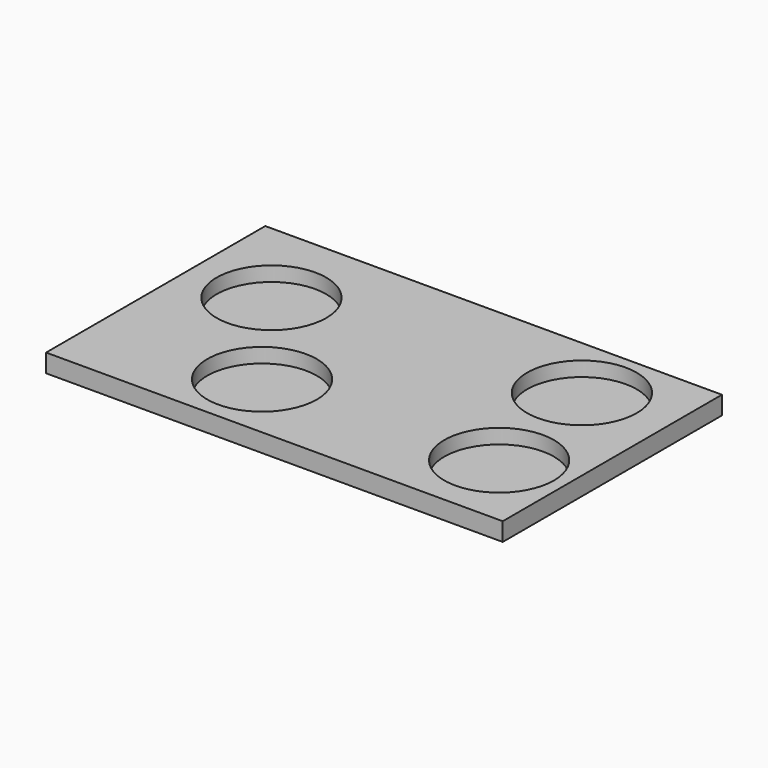
from build123d import *

# Parameters (mm, degrees)
F0_W     = 50
F0_H     = 30
F1_DEPTH = 2
F2_R     = 6
F3_DEPTH = 1.6


with BuildPart() as f1:
    # F0 (on Top) → F1 (new body)
    with BuildSketch(Plane.XY):
        Rectangle(F0_W, F0_H)
    extrude(amount=-F1_DEPTH)

    # F2 (on Top) → F3 (cut)
    with BuildSketch(Plane.XY):
        with Locations((-16.288219, 4.957285)):
            Circle(F2_R)
        with Locations((-7.487288, -7.332874)):
            Circle(F2_R)
        with Locations((15.438399, 7.790019)):
            Circle(F2_R)
        with Locations((17.704586, -6.373652)):
            Circle(F2_R)
    extrude(amount=-F3_DEPTH, mode=Mode.SUBTRACT)


solid = f1.part
